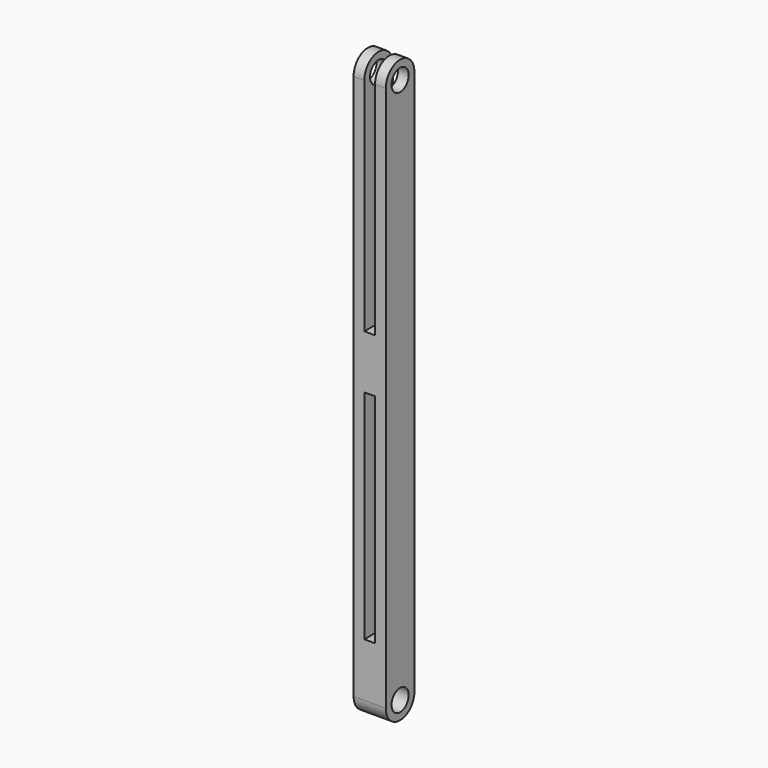
from build123d import *

# Parameters (mm, degrees)
F0_R     = 3
F1_DEPTH = 9
F2_W     = 3
F2_H     = 61.75
F2_H_2   = 5
F2_H_3   = 60.75
F3_DEPTH = 10


with BuildPart() as f1:
    # F0 (on Right) → F1 (new body)
    with BuildSketch(Plane.YZ):
        with BuildLine():
            Line((5, -76.25), (5, 76.25))
            ThreePointArc((5, 76.25), (0, 81.25), (-5, 76.25))
            Line((-5, 76.25), (-5, -76.25))
            ThreePointArc((-5, -76.25), (0, -81.25), (5, -76.25))
        make_face()
        with Locations((0, -76.25)):
            Circle(F0_R, mode=Mode.SUBTRACT)
        with Locations((0, 76.25)):
            Circle(F0_R, mode=Mode.SUBTRACT)
    extrude(amount=F1_DEPTH)

    # F2 (on face) → F3 (cut)
    with BuildSketch(Plane(origin=(0, 5, 0), x_dir=(-1, 0, 0), z_dir=(0, 1, 0))):
        with Locations((-4.5, 45.375)):
            Rectangle(F2_W, F2_H)
        with Locations((-4.5, 78.75)):
            Rectangle(F2_W, F2_H_2)
        with Locations((-4.5, -30.875)):
            Rectangle(F2_W, F2_H_3)
    extrude(amount=-F3_DEPTH, mode=Mode.SUBTRACT)


solid = f1.part
